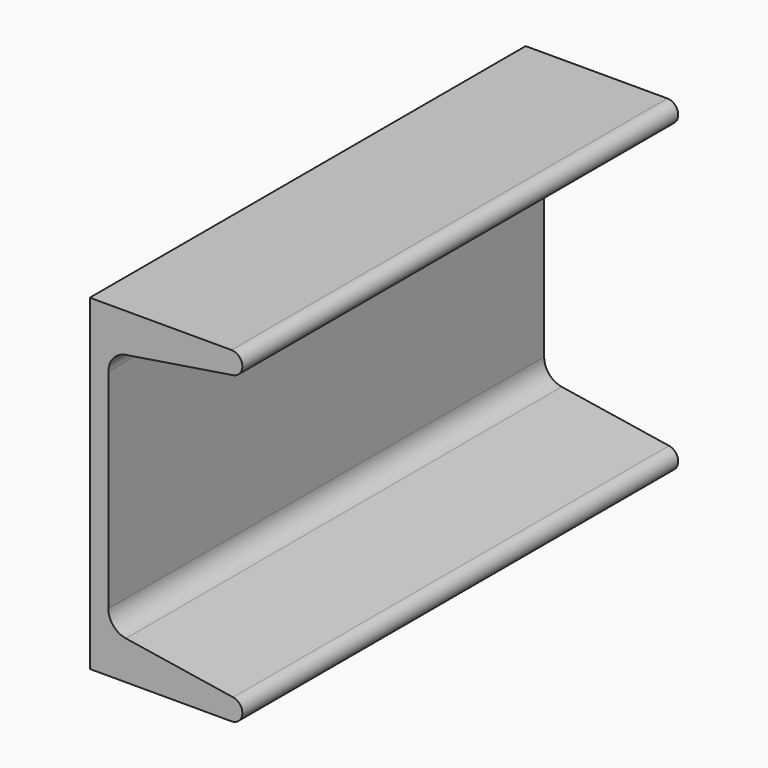
from build123d import *

# Parameters (mm, degrees)
F1_DEPTH = 63.5


with BuildPart() as f1:
    # F0 (on Front) → F1 (new body, symmetric)
    with BuildSketch(Plane.XZ):
        with BuildLine():
            Line((-39.87407, 38.1), (-72.89407, 38.1))
            Line((-72.89407, 38.1), (-72.89407, 0))
            Line((-72.89407, 0), (-72.89407, -38.1))
            Line((-72.89407, -38.1), (-39.87407, -38.1))
            ThreePointArc((-39.87407, -38.1), (-37.3419, -35.759286), (-39.476727, -33.051272))
            Line((-39.476727, -33.051272), (-64.483596, -29.090573))
            ThreePointArc((-64.483596, -29.090573), (-67.413704, -27.449634), (-68.57607, -24.298901))
            Line((-68.57607, -24.298901), (-68.57607, 0))
            Line((-68.57607, 0), (-68.57607, 24.298901))
            ThreePointArc((-68.57607, 24.298901), (-67.413704, 27.449634), (-64.483596, 29.090573))
            Line((-64.483596, 29.090573), (-39.476727, 33.051272))
            ThreePointArc((-39.476727, 33.051272), (-37.3419, 35.759286), (-39.87407, 38.1))
        make_face()
    extrude(amount=F1_DEPTH, both=True)


solid = f1.part
